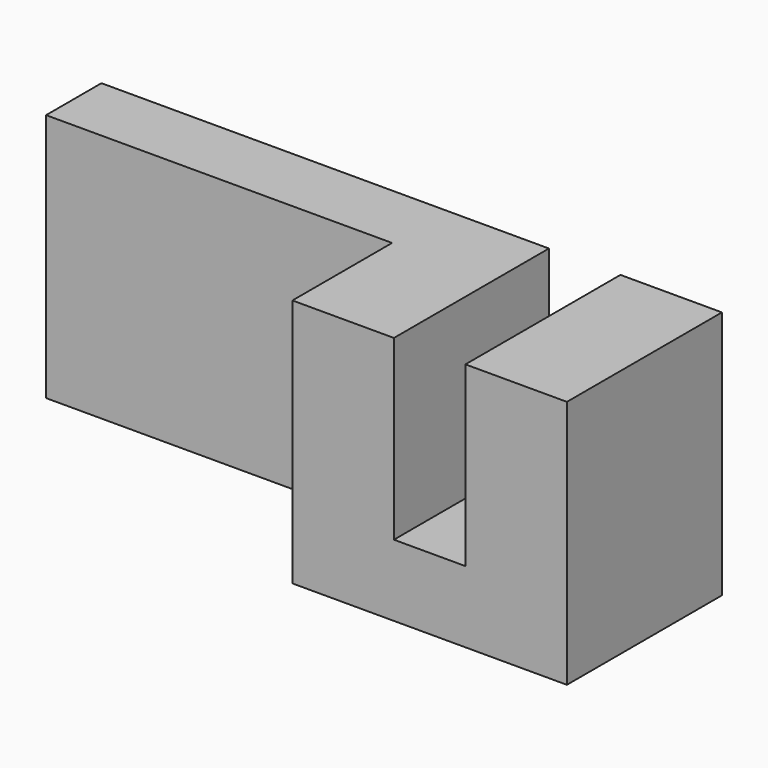
from build123d import *

# Parameters (mm, degrees)
SKETCH001_W  = 15
SKETCH001_H  = 10.8
PAD_DEPTH    = 3
PAD001_DEPTH = 8.4


with BuildPart() as part:
    # Sketch001 → Pad (new body)
    with BuildSketch(Plane.XZ):
        with Locations((-7.5, 5.4)):
            Rectangle(SKETCH001_W, SKETCH001_H)
    extrude(amount=PAD_DEPTH)

    # Sketch → Pad001 (join)
    with BuildSketch(Plane.XZ):
        Polygon((0, 0), (0, 10.8), (4.4, 10.8), (4.4, 3.1), (7.5, 3.1), (7.5, 10.8), (11.9, 10.8), (11.9, 0), align=None)
    extrude(amount=PAD001_DEPTH)


solid = part.part
